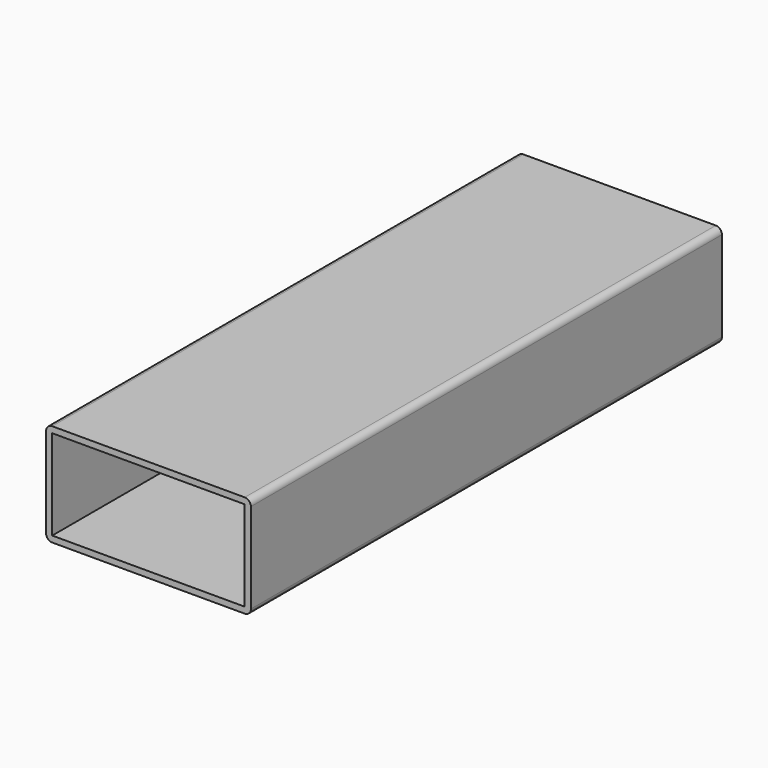
from build123d import *

# Parameters (mm, degrees)
F0_W     = 47.752
F0_H     = 22.352
F1_DEPTH = 146.05


with BuildPart() as f1:
    # F0 (on Front) → F1 (new body)
    with BuildSketch(Plane.XZ):
        with BuildLine():
            ThreePointArc((0, 1.524), (0.446369, 0.446369), (1.524, 0))
            Line((1.524, 0), (49.276, 0))
            ThreePointArc((49.276, 0), (50.353631, 0.446369), (50.8, 1.524))
            Line((50.8, 1.524), (50.8, 23.876))
            ThreePointArc((50.8, 23.876), (50.353631, 24.953631), (49.276, 25.4))
            Line((49.276, 25.4), (1.524, 25.4))
            ThreePointArc((1.524, 25.4), (0.446369, 24.953631), (0, 23.876))
            Line((0, 23.876), (0, 1.524))
        make_face()
        with Locations((25.4, 12.7)):
            Rectangle(F0_W, F0_H, mode=Mode.SUBTRACT)
    extrude(amount=F1_DEPTH)


solid = f1.part
